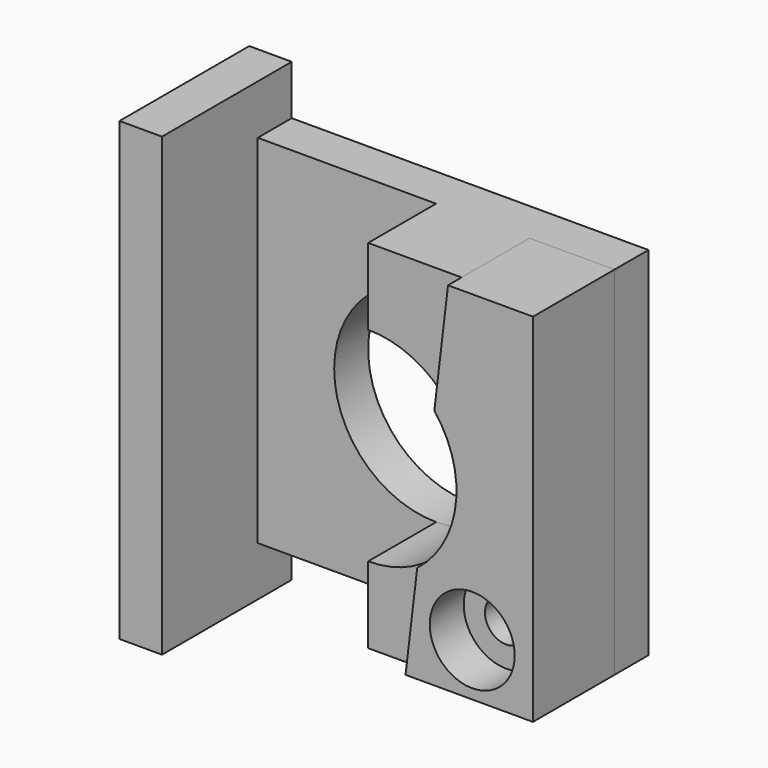
from build123d import *

# Parameters (mm, degrees)
F0_W             = 42
F0_H             = 42
F0_R             = 12
F1_DEPTH         = 5
F2_W             = 19.0896373242
F2_H             = 53.6900572479
F3_DEPTH         = 5
F5_DEPTH         = 10
F6_DEPTH         = 12
F8_D             = 5
F8_CBORE_D       = 10
F8_CBORE_DEPTH   = 5
F8_2_D           = 5
F8_2_CBORE_D     = 10
F8_2_CBORE_DEPTH = 5


with BuildPart() as f1:
    # F0 (on Front) → F1 (new body)
    with BuildSketch(Plane.XZ):
        Rectangle(F0_W, F0_H)
        Circle(F0_R, mode=Mode.SUBTRACT)
    extrude(amount=F1_DEPTH)

    # F2 (on face) → F3 (join)
    with BuildSketch(Plane(origin=(-21, 0, 0), x_dir=(0, -1, 0), z_dir=(-1, 0, 0))):
        with Locations((9.5448186621, 0)):
            Rectangle(F2_W, F2_H)
    extrude(amount=F3_DEPTH)

    # F4 (on face) → F5 (join)
    with BuildSketch(Plane.XZ.offset(5)):
        with BuildLine():
            Line((9.3895657925, 7.4723526569), (11, 21))
            Line((11, 21), (0, 21))
            Line((0, 21), (0, 12))
            ThreePointArc((0, 12), (5.2120901814, 10.8089831132), (9.3895657925, 7.4723526569))
        make_face()
        with BuildLine():
            Line((6, -21), (7.3728713232, -9.4678808849))
            ThreePointArc((7.3728713232, -9.4678808849), (3.8977833047, -11.3493297295), (0, -12))
            Line((0, -12), (0, -21))
            Line((0, -21), (6, -21))
        make_face()
    extrude(amount=F5_DEPTH)


with BuildPart() as f6:
    # F6 (new): a face of the model
    f6_faces = [f1.part.faces().sort_by_distance(p)[0] for p in [
        (15.0870554418, -5, -1.4200647771),
    ]]
    extrude(f6_faces, amount=F6_DEPTH)

    # F8#2 (through all)
    with Locations(Plane.XZ.offset(17)):
        with Locations((13.8492491096, -14.8369381204)):
            CounterBoreHole(F8_2_D / 2, F8_2_CBORE_D / 2, F8_2_CBORE_DEPTH)


with BuildPart() as f1_1:
    add(f1.part)

    # F8 (through all)
    with Locations(Plane.XZ.offset(17)):
        with Locations((13.8492491096, -14.8369381204)):
            CounterBoreHole(F8_D / 2, F8_CBORE_D / 2, F8_CBORE_DEPTH)


solid = Compound([f6.part, f1_1.part])
